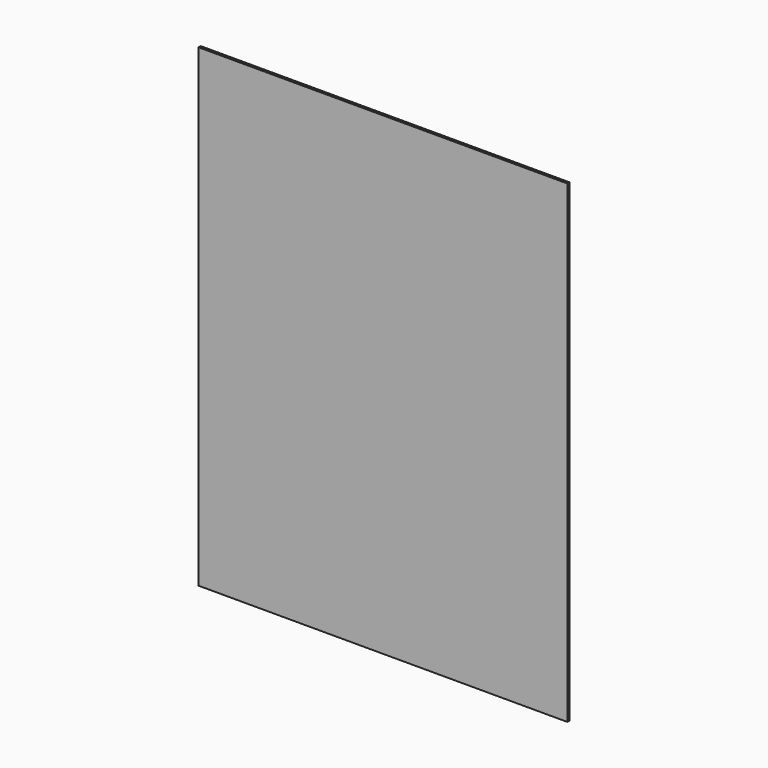
from build123d import *

# Parameters (mm, degrees)
SKETCH_W  = 1400
SKETCH_H  = 1800
PAD_DEPTH = 10


with BuildPart() as part:
    # Sketch → Pad (new body)
    with BuildSketch(Plane.XZ):
        with Locations((700, 900)):
            Rectangle(SKETCH_W, SKETCH_H)
    extrude(amount=PAD_DEPTH)


solid = part.part
